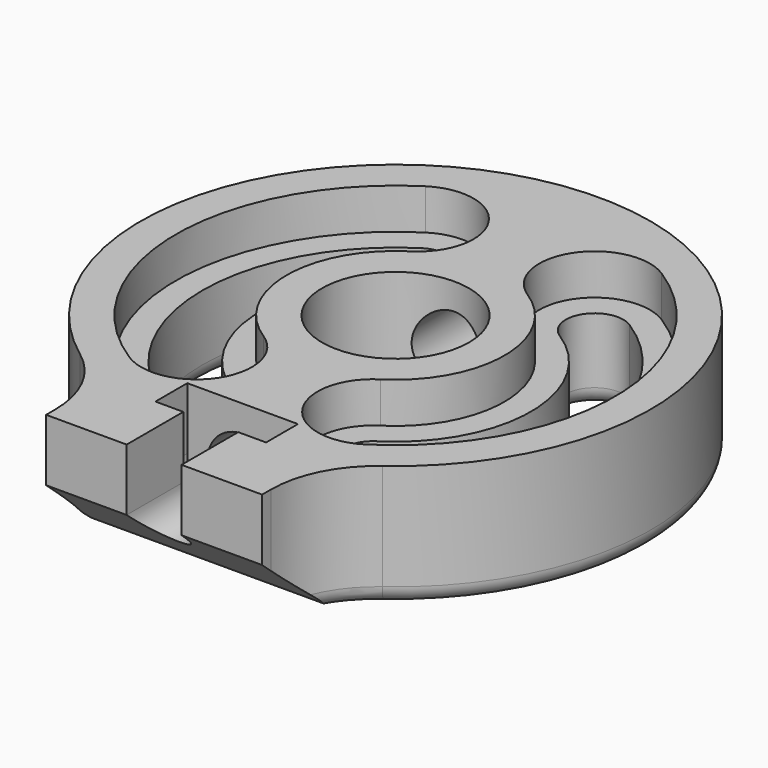
from build123d import *

# Parameters (mm, degrees)
SKETCH_R          = 4.15
EXTRUDE_DEPTH     = 7
FILLET_R          = 6
POCKET_DEPTH      = 20.501
POCKET_DEPTH_BACK = 8.301
FILLET001_R       = 1
SKETCH002_R       = 1.55
POCKET001_DEPTH   = 4
SKETCH003_R       = 2
POCKET002_DEPTH   = 27.445156
POCKET003_DEPTH   = 3.5
POCKET004_DEPTH   = 2.25
POCKET005_DEPTH   = 2.3


with BuildPart() as part:
    # Sketch → Extrude (new body)
    with BuildSketch(Plane.XY):
        with BuildLine():
            ThreePointArc((6.1, -13.044156), (0, 14.4), (-6.1, -13.044156))
            Line((-6.1, -13.044156), (-6.1, -17.044156))
            Line((-6.1, -17.044156), (6.1, -17.044156))
            Line((6.1, -17.044156), (6.1, -13.044156))
        make_face()
        Circle(SKETCH_R, mode=Mode.SUBTRACT)
        with BuildLine():
            ThreePointArc((-4.110342, 6.451945), (-7.65, 0), (-4.110342, -6.451945))
            ThreePointArc((-5.856566, -9.192967), (-3.612943, -8.695568), (-4.110342, -6.451945))
            ThreePointArc((-5.856566, 9.192967), (-10.9, 0), (-5.856566, -9.192967))
            ThreePointArc((-4.110342, 6.451945), (-3.612943, 8.695568), (-5.856566, 9.192967))
        make_face(mode=Mode.SUBTRACT)
        with BuildLine():
            ThreePointArc((4.110342, -6.451945), (7.65, 0), (4.110342, 6.451945))
            ThreePointArc((5.856566, 9.192967), (3.612943, 8.695568), (4.110342, 6.451945))
            ThreePointArc((5.856566, -9.192967), (10.9, 0), (5.856566, 9.192967))
            ThreePointArc((4.110342, -6.451945), (3.612943, -8.695568), (5.856566, -9.192967))
        make_face(mode=Mode.SUBTRACT)
    extrude(amount=EXTRUDE_DEPTH)

    # Fillet
    fillet_edges = [part.edges().sort_by_distance(p)[0] for p in [
        (6.1, -13.044156, 3.5),
        (-6.1, -13.044156, 3.5),
    ]]
    fillet(fillet_edges, radius=FILLET_R)

    # Sketch001 → Pocket (cut, two sides)
    with BuildSketch(Plane.YZ.offset(6.1)) as pocket_sk:
        Polygon((-17.044156, 3.5), (-17.044156, 0), (-13.044156, 0), align=None)
    extrude(amount=-POCKET_DEPTH, mode=Mode.SUBTRACT)
    extrude(pocket_sk.sketch, amount=POCKET_DEPTH_BACK, mode=Mode.SUBTRACT)

    # Fillet001
    fillet001_edges = [part.edges().sort_by_distance(p)[0] for p in [
        (0, 14.4, 0),
        (7.780531, -12.259672, 0),
        (0, -13.044156, 0),
        (-7.780531, -12.259672, 0),
        (-7.65, 0, 0),
        (-3.612943, 8.695568, 0),
        (-3.612943, -8.695568, 0),
        (-10.9, 0, 0),
        (-4.15, 0, 0),
        (3.612943, -8.695568, 0),
        (7.65, 0, 0),
        (10.9, 0, 0),
        (3.612943, 8.695568, 0),
    ]]
    fillet(fillet001_edges, radius=FILLET001_R)

    # Sketch002 → Pocket001 (cut)
    with BuildSketch(Plane.XZ.offset(17.044156)):
        with Locations((0, 3.5)):
            Circle(SKETCH002_R)
    extrude(amount=-POCKET001_DEPTH, mode=Mode.SUBTRACT)

    # Sketch003 → Pocket002 (cut, through all)
    with BuildSketch(Plane.XZ.offset(13.044156)):
        with Locations((0, 3.5)):
            Circle(SKETCH003_R)
    extrude(amount=-POCKET002_DEPTH, mode=Mode.SUBTRACT)

    # Sketch004 → Pocket003 (cut)
    with BuildSketch(Plane.XY.offset(7)):
        Polygon((-3.125, -10.794156), (3.125, -10.794156), (3.125, -13.044156), (1.55, -13.044156), (1.55, -17.044156), (-1.55, -17.044156), (-1.55, -13.044156), (-3.125, -13.044156), align=None)
    extrude(amount=-POCKET003_DEPTH, mode=Mode.SUBTRACT)

    # Sketch005 → Pocket004 (cut)
    with BuildSketch(Plane.XZ.offset(10.794156)):
        with BuildLine():
            Line((-3.125, 3.5), (3.125, 3.5))
            ThreePointArc((-3.125, 3.5), (0, 0.375), (3.125, 3.5))
        make_face()
    extrude(amount=POCKET004_DEPTH, mode=Mode.SUBTRACT)

    # Sketch006 → Pocket005 (cut)
    with BuildSketch(Plane.XY.offset(7)):
        with BuildLine():
            ThreePointArc((-3.304393, 5.186857), (-2.347856, 9.501517), (-6.662515, 10.458054))
            ThreePointArc((-6.662515, 10.458054), (-12.4, 0), (-6.662515, -10.458054))
            ThreePointArc((-6.662515, -10.458054), (-2.347856, -9.501517), (-3.304393, -5.186857))
            ThreePointArc((-3.304393, 5.186857), (-6.15, 0), (-3.304393, -5.186857))
        make_face()
        with BuildLine():
            ThreePointArc((6.662515, 10.458054), (2.347856, 9.501517), (3.304393, 5.186857))
            ThreePointArc((3.304393, -5.186857), (6.15, 0), (3.304393, 5.186857))
            ThreePointArc((3.304393, -5.186857), (2.347856, -9.501517), (6.662515, -10.458054))
            ThreePointArc((6.662515, -10.458054), (12.4, 0), (6.662515, 10.458054))
        make_face()
    extrude(amount=-POCKET005_DEPTH, mode=Mode.SUBTRACT)


solid = part.part
